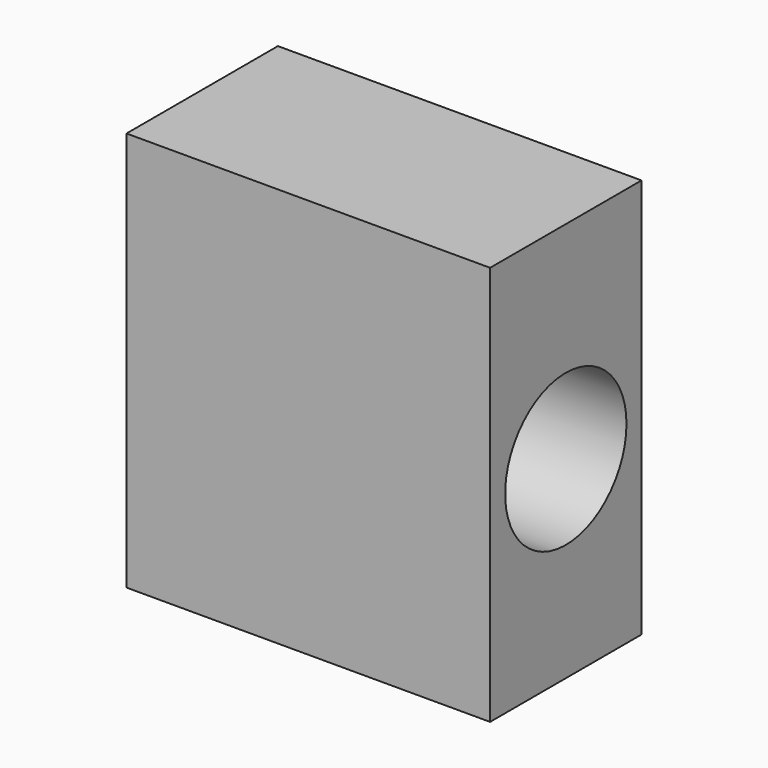
from build123d import *

# Parameters (mm, degrees)
F0_W     = 48.802748
F0_H     = 53.657468
F1_DEPTH = 12.7
F2_R     = 10.17673
F3_DEPTH = 37.338


with BuildPart() as f1:
    # F0 (on Front) → F1 (new body, symmetric)
    with BuildSketch(Plane.XZ):
        with Locations((5.159125, 0.910755)):
            Rectangle(F0_W, F0_H)
    extrude(amount=F1_DEPTH, both=True)

    # F2 (on Right) → F3 (cut, symmetric)
    with BuildSketch(Plane.YZ):
        Circle(F2_R)
    extrude(amount=F3_DEPTH, both=True, mode=Mode.SUBTRACT)


solid = f1.part
